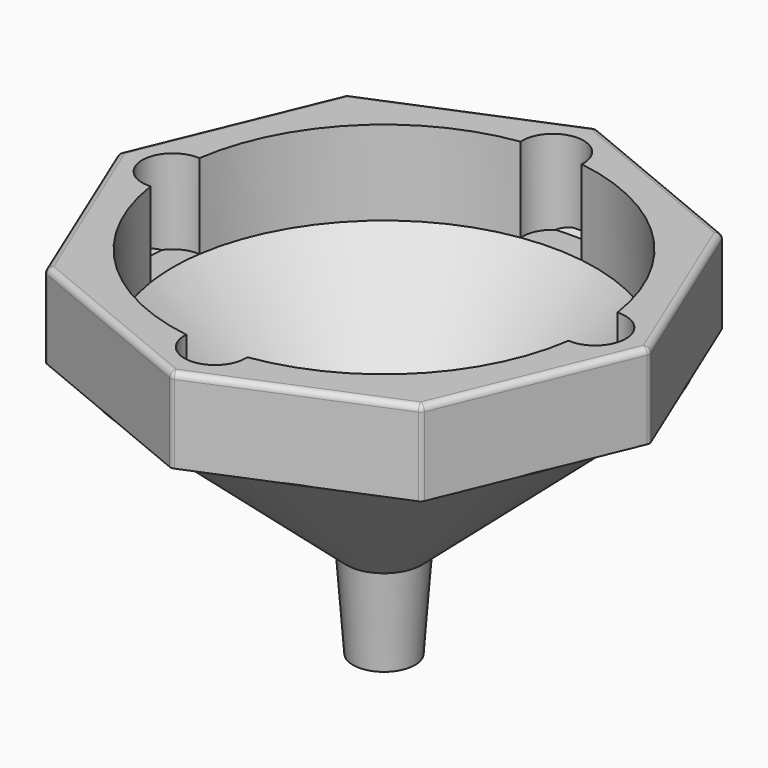
from build123d import *

# Parameters (mm, degrees)
SKETCH002_R     = 35
PAD001_DEPTH    = 14
SKETCH005_R     = 5.072464
POCKET001_DEPTH = 14
FILLET_R        = 1


with BuildPart() as part:
    # Sketch002 → Pad001 (new body)
    with BuildSketch(Plane.XY.offset(14)):
        Polygon((-31.163938, 31.163938), (-44.072464, 0), (-31.163938, -31.163938), (0, -44.072464), (31.163938, -31.163938), (44.072464, 0), (31.163938, 31.163938), (0, 44.072464), align=None)
        Circle(SKETCH002_R, mode=Mode.SUBTRACT)
    extrude(amount=-PAD001_DEPTH)

    # Sketch005 (on Face10 of Pad001) → Pocket001 (cut)
    with BuildSketch(Plane.XY.offset(14)):
        with Locations((0, 35)):
            Circle(SKETCH005_R)
        with Locations((35, 0)):
            Circle(SKETCH005_R)
        with Locations((0, -35)):
            Circle(SKETCH005_R)
        with Locations((-35, 0)):
            Circle(SKETCH005_R)
    extrude(amount=-POCKET001_DEPTH, mode=Mode.SUBTRACT)

    # Sketch006 → Revolution (revolve)
    with BuildSketch(Plane.XZ):
        Polygon((-40.776272, 0), (-40.043432, 0.680401), (-39.260375, 0), (-35, 0), (-5.289894, -29.463161), (-4.138373, -44.958753), (-5.138373, -44.958753), (-6.25, -30), align=None)
    revolve(axis=Axis((0, 0, 0), (0, 0, 1)))

    # Fillet
    fillet_edges = [part.edges().sort_by_distance(p)[0] for p in [
        (31.163938, 31.163938, 7),
        (15.581969, 37.618201, 14),
        (0, 44.072464, 7),
        (-15.581969, 37.618201, 14),
        (-31.163938, 31.163938, 7),
        (44.072464, 0, 7),
        (37.618201, 15.581969, 14),
        (37.618201, -15.581969, 14),
        (31.163938, -31.163938, 7),
        (15.581969, -37.618201, 14),
        (-15.581969, -37.618201, 14),
        (-37.618201, -15.581969, 14),
        (-37.618201, 15.581969, 14),
        (-44.072464, 0, 7),
        (-31.163938, -31.163938, 7),
        (0, -44.072464, 7),
    ]]
    fillet(fillet_edges, radius=FILLET_R)


solid = part.part
